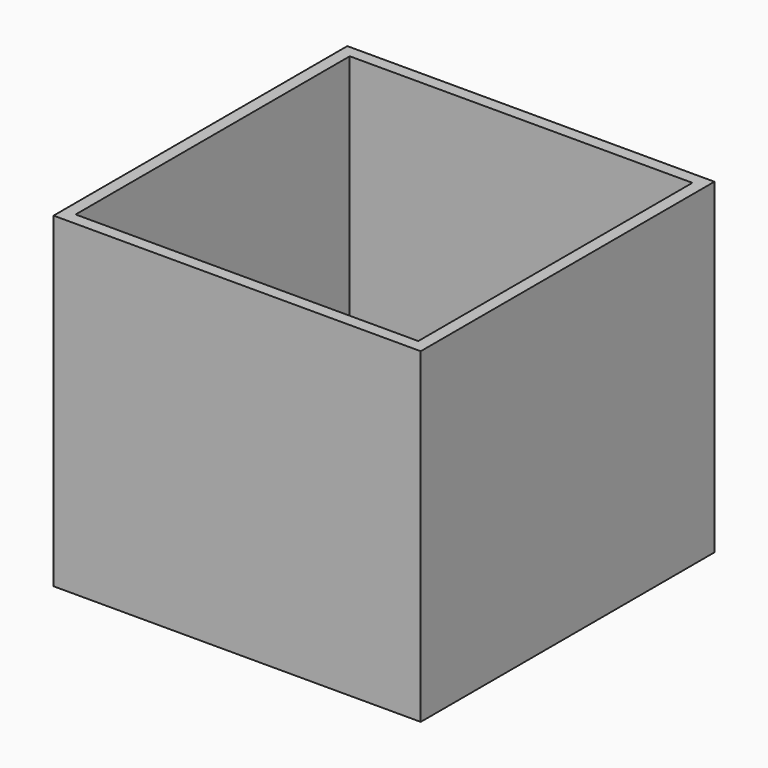
from build123d import *

# Parameters (mm, degrees)
F0_W     = 114.3
F0_H     = 101.6
F1_DEPTH = 114.3
F2_W     = 106.68
F2_H     = 106.68
F3_DEPTH = 50.801
F4_DEPTH = 50.801


with BuildPart() as f1:
    # F0 (on Front) → F1 (new body)
    with BuildSketch(Plane.XZ):
        Rectangle(F0_W, F0_H)
    extrude(amount=F1_DEPTH)

    # F2 (on Top) → F3 (cut, through all)
    with BuildSketch(Plane.XY):
        with Locations((0, -57.15)):
            Rectangle(F2_W, F2_H)
    extrude(amount=F3_DEPTH, mode=Mode.SUBTRACT)

    # F2 (on Top) → F4 (cut, through all)
    with BuildSketch(Plane.XY):
        with Locations((0, -57.15)):
            Rectangle(F2_W, F2_H)
    extrude(amount=-F4_DEPTH, mode=Mode.SUBTRACT)


solid = f1.part
